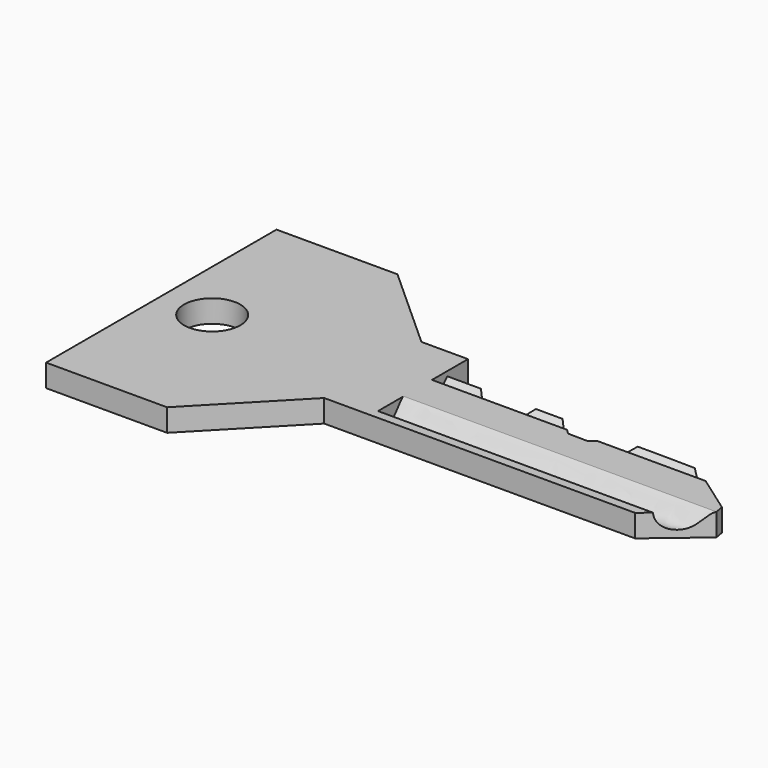
from build123d import *

# Parameters (mm, degrees)
F0_R      = 2.5
F1_DEPTH  = 2
F12_DEPTH = 2.0010001


with BuildPart() as f1:
    # F0 (on Top) → F1 (new body)
    with BuildSketch(Plane.XY):
        Polygon((-9.1669032276, 25.6), (-19.9169032276, 25.6), (-19.9169032276, 0), (-9.1669032276, 0), (-1.5169032276, 7.9), (30.5230967724, 7.9), (30.5230967724, 16.4), (2.6230967724, 16.4), (2.6230967724, 18.7), (-1.5169032276, 18.7), align=None)
        with Locations((-15.3946050969, 12.8)):
            Circle(F0_R, mode=Mode.SUBTRACT)
    extrude(amount=F1_DEPTH)

    # F4: sweep along a path in F2
    with BuildLine(Plane.XY.offset(2)) as f4_path:
        Line((2.6230967724, 15.15), (30.5230967724, 15.15))
    # F3 (on face) → F4 (sweep, cut)
    with BuildSketch(Plane.YZ.offset(2.6230967724)):
        with BuildLine():
            Line((17.3, 2), (15.3, 2))
            Line((15.3, 2), (14.7, 2))
            Line((14.7, 2), (15.5823529412, 0.75))
            add(Edge.make_bspline(
                [(15.5823529412, 0.75), (16.5972711165, 1.727867192), (16.3149181753, 1.727867192), (17.3, 2)],
                knots=[0, 0, 0, 0, 2.1243378777, 2.1243378777, 2.1243378777, 2.1243378777], degree=3))
        make_face()
    sweep(path=f4_path.line, mode=Mode.SUBTRACT)

    # F7: sweep along a path in F5
    with BuildLine(Plane.XY.offset(2)) as f7_path:
        Line((2.6230967724, 10.25), (30.5230967724, 10.25))
    # F6 (on face) → F7 (sweep, cut)
    with BuildSketch(Plane.YZ.offset(2.6230967724)):
        with BuildLine():
            add(Edge.make_bspline(
                [(11.55, 2), (11.1790336668, 1.9353309371), (10.4687979638, 0.1254777743), (8.7644318119, 0.7537172832), (8.7, 2)],
                knots=[0, 0, 0, 0, 0.4876224091, 1, 1, 1, 1], degree=3))
            Line((11.55, 2), (8.7, 2))
        make_face()
    sweep(path=f7_path.line, mode=Mode.SUBTRACT)

    # F10: sweep along a path in F8
    with BuildLine(Plane(origin=(0, 0, 0), x_dir=(1, 0, 0), z_dir=(0, 0, -1))) as f10_path:
        Line((2.6230967724, -17.2), (30.5230967724, -17.2))
    # F9 (on face) → F10 (sweep, cut)
    with BuildSketch(Plane.YZ.offset(2.6230967724)):
        with BuildLine():
            Line((17.2, 0), (17.2, 1))
            add(Edge.make_bspline(
                [(17.2, 1), (16.4, 1), (16.0935369316, 1.4085311701), (15.3480378536, 0.0682215952), (14.85, 0)],
                knots=[0, 0, 0, 0, 0.2283467357, 0.4887534963, 0.4887534963, 0.4887534963, 0.4887534963], degree=3))
            Line((14.85, 0), (17.2, 0))
        make_face()
        with BuildLine():
            Line((12.35, 0), (14.6790269663, 0))
            add(Edge.make_bspline(
                [(14.6790269663, 0), (14.1576409549, 0.0644703918), (13.0556896692, 1.1783434405), (12.4299004674, 0.6828821497), (12.35, 0)],
                knots=[0.5179423028, 0.5179423028, 0.5179423028, 0.5179423028, 0.7800763138, 1, 1, 1, 1], degree=3))
        make_face()
        with BuildLine():
            add(Edge.make_bspline(
                [(14.85, 0), (14.7941752951, -0.0076469096), (14.7370836655, -0.0071788235), (14.6790269663, 0)],
                knots=[0.4887534963, 0.4887534963, 0.4887534963, 0.4887534963, 0.5179423028, 0.5179423028, 0.5179423028, 0.5179423028], degree=3))
            Line((14.85, 0), (14.6790269663, 0))
        make_face()
    sweep(path=f10_path.line, mode=Mode.SUBTRACT)

    # F11 (on Top) → F12 (cut, through all)
    with BuildSketch(Plane.XY):
        Polygon((39.7434785501, 18.7), (2.6230967724, 18.7), (2.6230967724, 16.7), (5.3041512147, 16.7), (7.2075817734, 14.8422960192), (8.660200052, 14.8422960192), (10.6638120487, 16.5453646332), (12.7175133675, 16.5453646332), (15.0406220928, 14.2980599776), (16.7383030057, 14.2682762817), (19.5677690208, 16.4127144963), (24.6310271323, 16.3829308003), (25.3239014027, 15.8490902482), (30.2877575159, 12.3288799077), (30.4283164442, 11.5417372435), (25.4341885448, 7.3262052611), (39.7434785501, 7.5555583894), (39.7434785501, 11.2498085946), align=None)
    extrude(amount=F12_DEPTH, mode=Mode.SUBTRACT)


solid = f1.part
